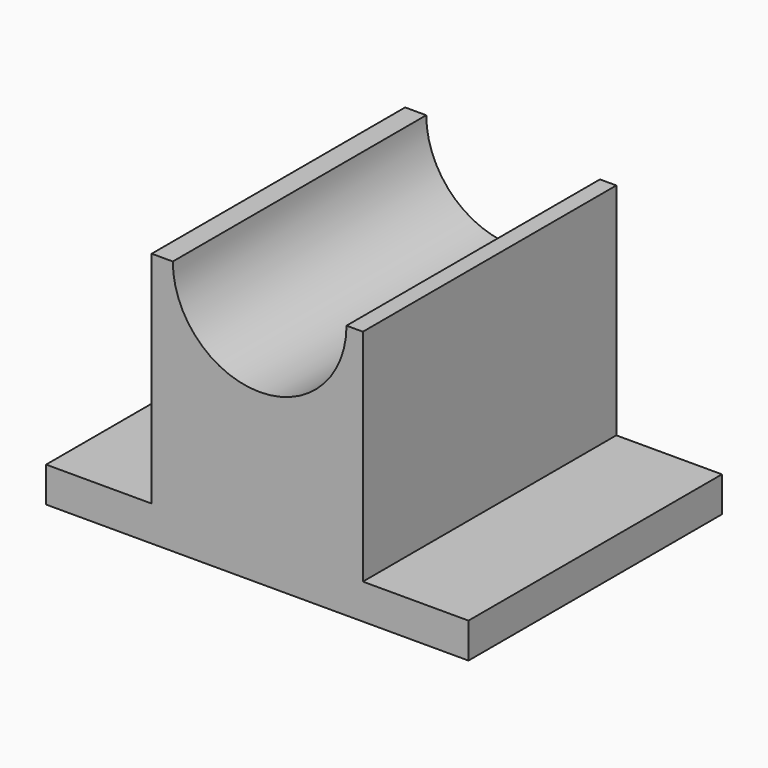
from build123d import *

# Parameters (mm, degrees)
F1_DEPTH = 114.3
F3_DEPTH = 114.3


with BuildPart() as f1:
    # F0 (on Front) → F1 (new body)
    with BuildSketch(Plane.XZ):
        Polygon((0, 12.7), (0, 0), (152.4, 0), (152.4, 12.7), (114.3, 12.7), (114.3, 92.075), (38.1, 92.075), (38.1, 12.7), align=None)
    extrude(amount=F1_DEPTH)

    # F2 (on face) → F3 (cut, through all)
    with BuildSketch(Plane.XZ.offset(114.3)):
        with BuildLine():
            Line((108.393453, 92.075), (45.721143, 92.075))
            ThreePointArc((45.721143, 92.075), (77.057298, 60.801002), (108.393453, 92.075))
        make_face()
    extrude(amount=-F3_DEPTH, mode=Mode.SUBTRACT)


solid = f1.part
